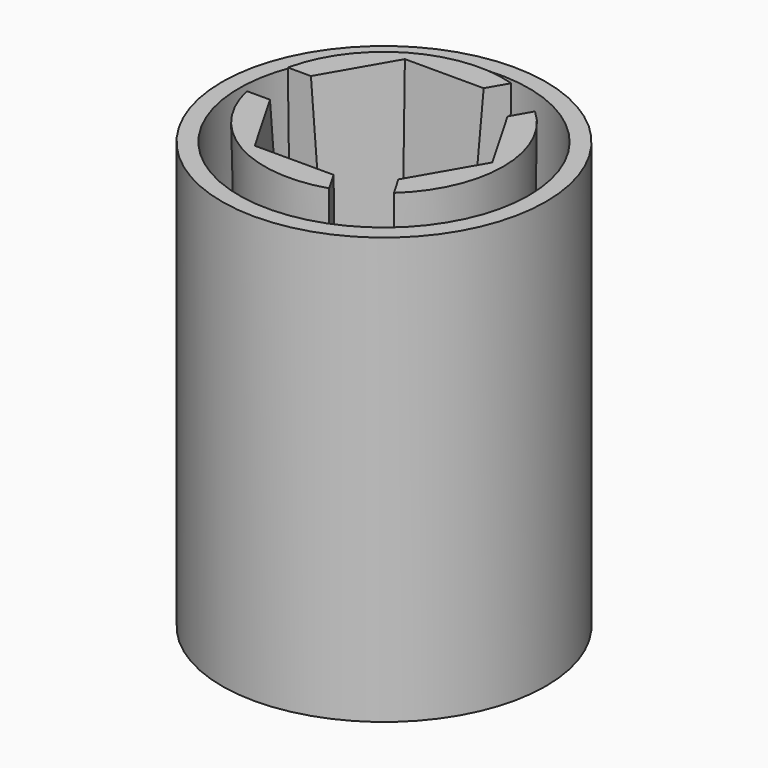
from build123d import *

# Parameters (mm, degrees)
F1_R      = 6.65
F3_R      = 7
F2_R      = 3.5
F5_DEPTH  = 32
F9_W      = 10
F9_H      = 3
F11_DEPTH = 25
F12_R     = 9.5
F12_R_2   = 8.5
F13_DEPTH = 25


with BuildPart() as f4:
    # F1 (on Top) → F4 section 0
    with BuildSketch(Plane.XY):
        Circle(F1_R)
    # F3 (on offset) → F4 section 1
    with BuildSketch(Plane.XY.offset(26)):
        Circle(F3_R)
    loft()

    # F2 (on Top) → F5 (cut)
    with BuildSketch(Plane.XY):
        Circle(F2_R)
    extrude(amount=F5_DEPTH, mode=Mode.SUBTRACT)

    # F7 (on offset) → F10 section 0
    with BuildSketch(Plane.XY.offset(4)):
        Polygon((-2.309401, 4), (-4.618802, 0), (-2.309401, -4), (2.309401, -4), (4.618802, 0), (2.309401, 4), align=None)
    # F8 (on offset) → F10 section 1
    with BuildSketch(Plane.XY.offset(26)):
        Polygon((6.350853, 0), (3.175426, 5.5), (-3.175426, 5.5), (-6.350853, 0), (-3.175426, -5.5), (3.175426, -5.5), align=None)
    loft(mode=Mode.SUBTRACT)

    # F9 (on offset) → F11 (cut)
    with BuildSketch(Plane.XY.offset(4)):
        with Locations((-6.366908, 0)):
            Rectangle(F9_W, F9_H)
        Polygon((-0.615584, -1.933777), (4.384416, -10.594031), (6.982492, -9.094031), (1.982492, -0.433777), align=None)
        Polygon((1.982492, 0.433777), (6.982492, 9.094031), (4.384416, 10.594031), (-0.615584, 1.933777), align=None)
    extrude(amount=F11_DEPTH, mode=Mode.SUBTRACT)


with BuildPart() as f13:
    # F12 (on Top) → F13 (new body)
    with BuildSketch(Plane.XY):
        Circle(F12_R)
        Circle(F12_R_2, mode=Mode.SUBTRACT)
    extrude(amount=F13_DEPTH)


solid = Compound([f4.part, f13.part])
